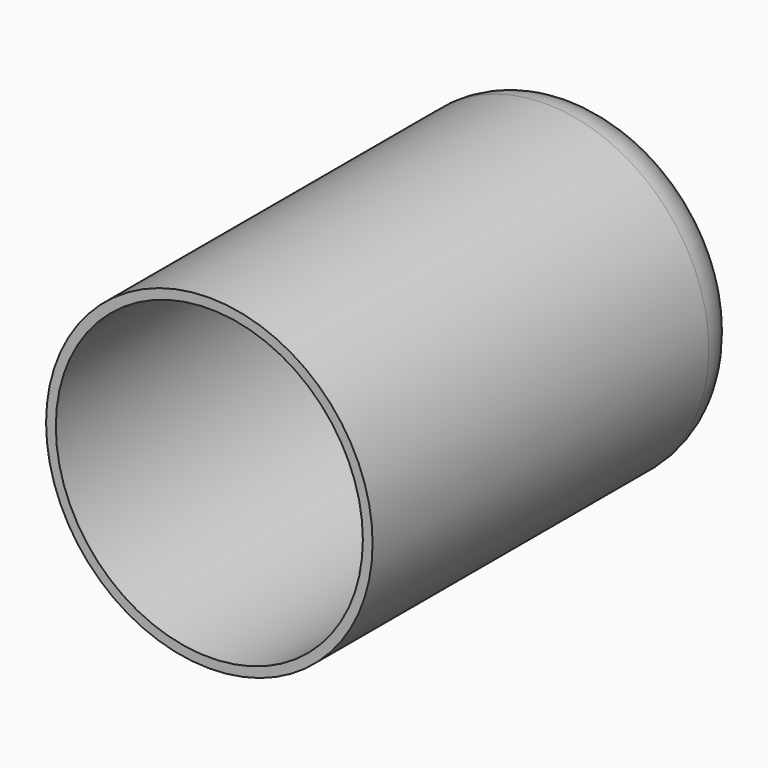
from build123d import *

# Parameters (mm, degrees)
F0_R     = 42.594898
F1_DEPTH = 121.92
F2_R     = 12.264205
F3_T     = -2.54


with BuildPart() as f1:
    # F0 (on Front) → F1 (new body)
    with BuildSketch(Plane.XZ):
        Circle(F0_R)
    extrude(amount=-F1_DEPTH)

    # F2
    f2_edges = [f1.edges().sort_by_distance(p)[0] for p in [
        (-42.594898, 121.92, 0),
    ]]
    fillet(f2_edges, radius=F2_R)

    # F3
    f3_openings = [f1.faces().sort_by_distance(p)[0] for p in [
        (0, 0, 0),
    ]]
    offset(amount=F3_T, openings=f3_openings)


solid = f1.part
